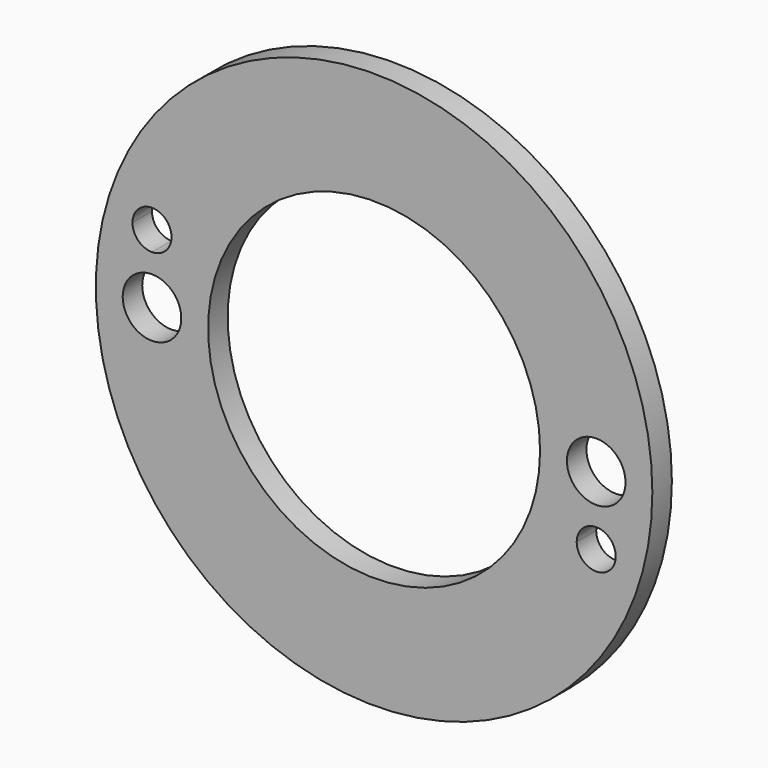
from build123d import *

# Parameters (mm, degrees)
F0_R     = 28.5
F0_R_2   = 17
F1_DEPTH = 2.5
F3_DEPTH = 25
F6_DEPTH = 25
F7_DEPTH = 25


with BuildPart() as f1:
    # F0 (on Front) → F1 (new body)
    with BuildSketch(Plane.XZ):
        Circle(F0_R)
        Circle(F0_R_2, mode=Mode.SUBTRACT)
    extrude(amount=F1_DEPTH)

    # F2 (on face) → F3 (cut)
    with BuildSketch(Plane.XZ.offset(2.5)):
        with BuildLine():
            Line((-25.75, 0), (-19.75, 0))
            ThreePointArc((-19.75, 0), (-22.75, 3), (-25.75, 0))
        make_face()
        with BuildLine():
            ThreePointArc((-25.75, 0), (-22.75, -3), (-19.75, 0))
            Line((-19.75, 0), (-25.75, 0))
        make_face()
        with BuildLine():
            ThreePointArc((25.75, 0), (22.75, 3), (19.75, 0))
            Line((19.75, 0), (25.75, 0))
        make_face()
        with BuildLine():
            Line((25.75, 0), (19.75, 0))
            ThreePointArc((19.75, 0), (22.75, -3), (25.75, 0))
        make_face()
    extrude(amount=-F3_DEPTH, mode=Mode.SUBTRACT)

    # F5 (on face) → F6 (cut)
    with BuildSketch(Plane.XZ.offset(2.5)):
        with BuildLine():
            Line((-24.75, 7), (-22.75, 7))
            Line((-22.75, 7), (-20.75, 7))
            ThreePointArc((-20.75, 7), (-22.75, 9), (-24.75, 7))
        make_face()
        with BuildLine():
            Line((-22.75, 7), (-22.75, 5))
            ThreePointArc((-22.75, 5), (-21.3357864376, 5.5857864376), (-20.75, 7))
            Line((-20.75, 7), (-22.75, 7))
        make_face()
        with BuildLine():
            ThreePointArc((-24.75, 7), (-24.1642135624, 5.5857864376), (-22.75, 5))
            Line((-22.75, 5), (-22.75, 7))
            Line((-22.75, 7), (-24.75, 7))
        make_face()
    extrude(amount=-F6_DEPTH, mode=Mode.SUBTRACT)

    # F4 (on face) → F7 (cut)
    with BuildSketch(Plane.XZ.offset(2.5)):
        with BuildLine():
            Line((24.75, -7), (22.75, -7))
            Line((22.75, -7), (20.75, -7))
            ThreePointArc((20.75, -7), (22.75, -9), (24.75, -7))
        make_face()
        with BuildLine():
            Line((22.75, -7), (22.75, -5))
            ThreePointArc((22.75, -5), (21.3357864376, -5.5857864376), (20.75, -7))
            Line((20.75, -7), (22.75, -7))
        make_face()
        with BuildLine():
            ThreePointArc((24.75, -7), (24.1642135624, -5.5857864376), (22.75, -5))
            Line((22.75, -5), (22.75, -7))
            Line((22.75, -7), (24.75, -7))
        make_face()
    extrude(amount=-F7_DEPTH, mode=Mode.SUBTRACT)


solid = f1.part
